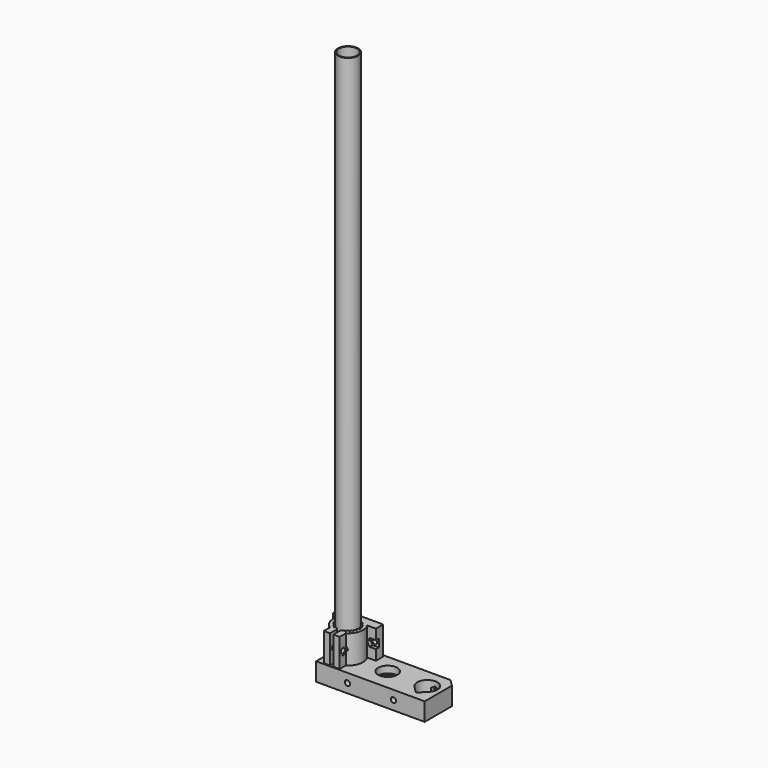
from build123d import *

# Parameters (mm, degrees)
F1_DEPTH      = 25
F2_R          = 2.1
F3_DEPTH      = 25.8780032048
F4_DEPTH      = 2
F4_DEPTH_BACK = 11.8780032048
F5_R          = 3.5
F6_DEPTH      = 0.4
F6_DEPTH_BACK = 11.8780032048
F7_R          = 2.1
F8_DEPTH      = 3.2
F9_DEPTH      = 8.001
F10_R         = 8.5
F10_R_2       = 3.2
F11_DEPTH     = 16
F12_SIZE      = 6
F13_DEPTH     = 6
F14_R         = 6
F15_DEPTH     = 1.8
F16_R         = 2
F17_DEPTH     = 16.926
F18_DEPTH     = 12.3
F19_R         = 2.3
F20_DEPTH     = 36.001
F19_R_2       = 3.8
F21_DEPTH     = 25
F22_R         = 8.925
F22_R_2       = 8.125
F23_DEPTH     = 470


with BuildPart() as f1:
    # F0 (on Top) → F1 (new body)
    with BuildSketch(Plane.XY):
        with BuildLine():
            Line((18.8770032048, 15.225), (0, 15.225))
            Line((0, 15.225), (-18.8770032048, 15.225))
            Line((-18.8770032048, 15.225), (-18.8770032048, 7.225))
            Line((-18.8770032048, 7.225), (-11.0770032048, 7.225))
            ThreePointArc((-11.0770032048, 7.225), (-12.9133280648, -2.8542220115), (-7, -11.2205447729))
            Line((-7, -11.2205447729), (-7, -18.0205447729))
            Line((-7, -18.0205447729), (-1.5, -18.0205447729))
            Line((-1.5, -18.0205447729), (-1.5, -10.2134570206))
            Line((-1.5, -10.2134570206), (-3.5, -8.5352577583))
            ThreePointArc((-3.5, -8.5352577583), (-3.884902989, -8.3670875319), (-4.2617517551, -8.1815705691))
            Line((-4.2617517551, -8.1815705691), (-4.9160898385, -9.3149173748))
            Line((-4.9160898385, -9.3149173748), (-5.6089101615, -8.9149173748))
            Line((-5.6089101615, -8.9149173748), (-4.9545720782, -7.7815705691))
            ThreePointArc((-4.9545720782, -7.7815705691), (-5.6158241826, -7.3186845642), (-6.2340823677, -6.7997677926))
            Line((-6.2340823677, -6.7997677926), (-7.1594561595, -7.7251415845))
            Line((-7.1594561595, -7.7251415845), (-7.7251415845, -7.1594561595))
            Line((-7.7251415845, -7.1594561595), (-6.7997677926, -6.2340823677))
            ThreePointArc((-6.7997677926, -6.2340823677), (-7.3186845642, -5.6158241826), (-7.7815705691, -4.9545720782))
            Line((-7.7815705691, -4.9545720782), (-8.9149173748, -5.6089101615))
            Line((-8.9149173748, -5.6089101615), (-9.3149173748, -4.9160898385))
            Line((-9.3149173748, -4.9160898385), (-8.1815705691, -4.2617517551))
            ThreePointArc((-8.1815705691, -4.2617517551), (-8.5227886874, -3.5302546636), (-8.798757596, -2.7717304644))
            Line((-8.798757596, -2.7717304644), (-10.0628417037, -3.1104407802))
            Line((-10.0628417037, -3.1104407802), (-10.2698969397, -2.3377001192))
            Line((-10.2698969397, -2.3377001192), (-9.0058128321, -1.9989898034))
            ThreePointArc((-9.0058128321, -1.9989898034), (-9.1460788462, -1.2041041232), (-9.2163238333, -0.4))
            Line((-9.2163238333, -0.4), (-10.525, -0.4))
            Line((-10.525, -0.4), (-10.525, 0.4))
            Line((-10.525, 0.4), (-9.2163238333, 0.4))
            ThreePointArc((-9.2163238333, 0.4), (-9.1460788462, 1.2041041232), (-9.0058128321, 1.9989898034))
            Line((-9.0058128321, 1.9989898034), (-10.2698969397, 2.3377001192))
            Line((-10.2698969397, 2.3377001192), (-10.0628417037, 3.1104407802))
            Line((-10.0628417037, 3.1104407802), (-8.798757596, 2.7717304644))
            ThreePointArc((-8.798757596, 2.7717304644), (-8.5227886874, 3.5302546636), (-8.1815705691, 4.2617517551))
            Line((-8.1815705691, 4.2617517551), (-9.3149173748, 4.9160898385))
            Line((-9.3149173748, 4.9160898385), (-8.9149173748, 5.6089101615))
            Line((-8.9149173748, 5.6089101615), (-7.7815705691, 4.9545720782))
            ThreePointArc((-7.7815705691, 4.9545720782), (-7.3186845642, 5.6158241826), (-6.7997677926, 6.2340823677))
            Line((-6.7997677926, 6.2340823677), (-7.7251415845, 7.1594561595))
            Line((-7.7251415845, 7.1594561595), (-7.1594561595, 7.7251415845))
            Line((-7.1594561595, 7.7251415845), (-6.2340823677, 6.7997677926))
            ThreePointArc((-6.2340823677, 6.7997677926), (-5.6158241826, 7.3186845642), (-4.9545720782, 7.7815705691))
            Line((-4.9545720782, 7.7815705691), (-5.6089101615, 8.9149173748))
            Line((-5.6089101615, 8.9149173748), (-4.9160898385, 9.3149173748))
            Line((-4.9160898385, 9.3149173748), (-4.2617517551, 8.1815705691))
            ThreePointArc((-4.2617517551, 8.1815705691), (-3.5302546636, 8.5227886874), (-2.7717304644, 8.798757596))
            Line((-2.7717304644, 8.798757596), (-3.1104407802, 10.0628417037))
            Line((-3.1104407802, 10.0628417037), (-2.3377001192, 10.2698969397))
            Line((-2.3377001192, 10.2698969397), (-1.9989898034, 9.0058128321))
            ThreePointArc((-1.9989898034, 9.0058128321), (-1.2041041232, 9.1460788462), (-0.4, 9.2163238333))
            Line((-0.4, 9.2163238333), (-0.4, 10.525))
            Line((-0.4, 10.525), (0.4, 10.525))
            Line((0.4, 10.525), (0.4, 9.2163238333))
            ThreePointArc((0.4, 9.2163238333), (1.2041041232, 9.1460788462), (1.9989898034, 9.0058128321))
            Line((1.9989898034, 9.0058128321), (2.3377001192, 10.2698969397))
            Line((2.3377001192, 10.2698969397), (3.1104407802, 10.0628417037))
            Line((3.1104407802, 10.0628417037), (2.7717304644, 8.798757596))
            ThreePointArc((2.7717304644, 8.798757596), (3.5302546636, 8.5227886874), (4.2617517551, 8.1815705691))
            Line((4.2617517551, 8.1815705691), (4.9160898385, 9.3149173748))
            Line((4.9160898385, 9.3149173748), (5.6089101615, 8.9149173748))
            Line((5.6089101615, 8.9149173748), (4.9545720782, 7.7815705691))
            ThreePointArc((4.9545720782, 7.7815705691), (5.6158241826, 7.3186845642), (6.2340823677, 6.7997677926))
            Line((6.2340823677, 6.7997677926), (7.1594561595, 7.7251415845))
            Line((7.1594561595, 7.7251415845), (7.7251415845, 7.1594561595))
            Line((7.7251415845, 7.1594561595), (6.7997677926, 6.2340823677))
            ThreePointArc((6.7997677926, 6.2340823677), (7.3186845642, 5.6158241826), (7.7815705691, 4.9545720782))
            Line((7.7815705691, 4.9545720782), (8.9149173748, 5.6089101615))
            Line((8.9149173748, 5.6089101615), (9.3149173748, 4.9160898385))
            Line((9.3149173748, 4.9160898385), (8.1815705691, 4.2617517551))
            ThreePointArc((8.1815705691, 4.2617517551), (8.5227886874, 3.5302546636), (8.798757596, 2.7717304644))
            Line((8.798757596, 2.7717304644), (10.0628417037, 3.1104407802))
            Line((10.0628417037, 3.1104407802), (10.2698969397, 2.3377001192))
            Line((10.2698969397, 2.3377001192), (9.0058128321, 1.9989898034))
            ThreePointArc((9.0058128321, 1.9989898034), (9.1460788462, 1.2041041232), (9.2163238333, 0.4))
            Line((9.2163238333, 0.4), (10.525, 0.4))
            Line((10.525, 0.4), (10.525, -0.4))
            Line((10.525, -0.4), (9.2163238333, -0.4))
            ThreePointArc((9.2163238333, -0.4), (9.1460788462, -1.2041041232), (9.0058128321, -1.9989898034))
            Line((9.0058128321, -1.9989898034), (10.2698969397, -2.3377001192))
            Line((10.2698969397, -2.3377001192), (10.0628417037, -3.1104407802))
            Line((10.0628417037, -3.1104407802), (8.798757596, -2.7717304644))
            ThreePointArc((8.798757596, -2.7717304644), (8.5227886874, -3.5302546636), (8.1815705691, -4.2617517551))
            Line((8.1815705691, -4.2617517551), (9.3149173748, -4.9160898385))
            Line((9.3149173748, -4.9160898385), (8.9149173748, -5.6089101615))
            Line((8.9149173748, -5.6089101615), (7.7815705691, -4.9545720782))
            ThreePointArc((7.7815705691, -4.9545720782), (7.3186845642, -5.6158241826), (6.7997677926, -6.2340823677))
            Line((6.7997677926, -6.2340823677), (7.7251415845, -7.1594561595))
            Line((7.7251415845, -7.1594561595), (7.1594561595, -7.7251415845))
            Line((7.1594561595, -7.7251415845), (6.2340823677, -6.7997677926))
            ThreePointArc((6.2340823677, -6.7997677926), (5.6158241826, -7.3186845642), (4.9545720782, -7.7815705691))
            Line((4.9545720782, -7.7815705691), (5.6089101615, -8.9149173748))
            Line((5.6089101615, -8.9149173748), (4.9160898385, -9.3149173748))
            Line((4.9160898385, -9.3149173748), (4.2617517551, -8.1815705691))
            ThreePointArc((4.2617517551, -8.1815705691), (3.884902989, -8.3670875319), (3.5, -8.5352577583))
            Line((3.5, -8.5352577583), (1.5, -10.2134570206))
            Line((1.5, -10.2134570206), (1.5, -18.0205447729))
            Line((1.5, -18.0205447729), (7, -18.0205447729))
            Line((7, -18.0205447729), (7, -11.2205447729))
            ThreePointArc((7, -11.2205447729), (12.9133280648, -2.8542220115), (11.0770032048, 7.225))
            Line((11.0770032048, 7.225), (18.8770032048, 7.225))
            Line((18.8770032048, 7.225), (18.8770032048, 15.225))
        make_face()
    extrude(amount=F1_DEPTH)

    # F2 (on face) → F3 (cut, through all)
    with BuildSketch(Plane(origin=(-7, 0, 0), x_dir=(0, -1, 0), z_dir=(-1, 0, 0))):
        with Locations((13.9205447729, 12.5)):
            Circle(F2_R)
    extrude(amount=-F3_DEPTH, mode=Mode.SUBTRACT)

    # F2 (on face) → F4 (cut, two sides)
    with BuildSketch(Plane(origin=(-7, 0, 0), x_dir=(0, -1, 0), z_dir=(-1, 0, 0))) as f4_sk:
        Polygon((11.2205447729, 10.0173938425), (11.2205447729, 14.9826061575), (10.4205447729, 14.5207259422), (10.4205447729, 10.4792740578), align=None)
        Polygon((17.4205447729, 10.4792740578), (17.4205447729, 14.5207259422), (13.9205447729, 16.5414518843), (11.2205447729, 14.9826061575), (11.2205447729, 10.0173938425), (13.9205447729, 8.4585481157), align=None)
        with Locations((13.9205447729, 12.5)):
            Circle(F2_R, mode=Mode.SUBTRACT)
    extrude(amount=-F4_DEPTH, mode=Mode.SUBTRACT)
    extrude(f4_sk.sketch, amount=F4_DEPTH_BACK, mode=Mode.SUBTRACT)

    # F5 (on face) → F6 (cut, two sides)
    with BuildSketch(Plane.YZ.offset(7)) as f6_sk:
        with Locations((-13.9205447729, 12.5)):
            Circle(F5_R)
    extrude(amount=-F6_DEPTH, mode=Mode.SUBTRACT)
    extrude(f6_sk.sketch, amount=F6_DEPTH_BACK, mode=Mode.SUBTRACT)

    # F7 (on face) → F8 (cut)
    with BuildSketch(Plane.XZ.offset(-7.225)):
        Polygon((-17.3391810313, 9), (-13.297729147, 9), (-11.2770032048, 12.5), (-13.297729147, 16), (-17.3391810313, 16), (-18.8770032048, 16), (-18.8770032048, 9), align=None)
        with Locations((-15.3184550892, 12.5)):
            Circle(F7_R, mode=Mode.SUBTRACT)
        Polygon((17.3391810313, 9), (18.8770032048, 9), (18.8770032048, 16), (17.3391810313, 16), (13.297729147, 16), (11.2770032048, 12.5), (13.297729147, 9), align=None)
        with Locations((15.3184550892, 12.5)):
            Circle(F7_R, mode=Mode.SUBTRACT)
    extrude(amount=-F8_DEPTH, mode=Mode.SUBTRACT)

    # F7 (on face) → F9 (cut, through all)
    with BuildSketch(Plane.XZ.offset(-7.225)):
        with Locations((-15.3184550892, 12.5)):
            Circle(F7_R)
        with Locations((15.3184550892, 12.5)):
            Circle(F7_R)
    extrude(amount=-F9_DEPTH, mode=Mode.SUBTRACT)


with BuildPart() as f11:
    # F10 (on Top) → F11 (new body)
    with BuildSketch(Plane.XY):
        Polygon((-12.925, -19.075), (35, -19.075), (82.925, -19.075), (82.925, 16.925), (35, 16.925), (-12.925, 16.925), align=None)
        with BuildLine():
            ThreePointArc((-6.3109280221, -6.3109280221), (-3.4154496339, 8.2456248277), (8.925, 0))
            ThreePointArc((8.925, 0), (8.2456248277, -3.4154496339), (6.3109280221, -6.3109280221))
            Line((6.3109280221, -6.3109280221), (0, -12.6218560442))
            Line((0, -12.6218560442), (-6.3109280221, -6.3109280221))
        make_face(mode=Mode.SUBTRACT)
        with BuildLine():
            Line((70, -12.6218560442), (63.6890719779, -6.3109280221))
            ThreePointArc((63.6890719779, -6.3109280221), (66.5845503661, 8.2456248277), (78.925, 0))
            ThreePointArc((78.925, 0), (78.2456248277, -3.4154496339), (76.3109280221, -6.3109280221))
            Line((76.3109280221, -6.3109280221), (70, -12.6218560442))
        make_face(mode=Mode.SUBTRACT)
        with Locations((35, 0)):
            Circle(F10_R, mode=Mode.SUBTRACT)
        with Locations((35, 0)):
            Circle(F10_R)
        with Locations((35, 0)):
            Circle(F10_R_2, mode=Mode.SUBTRACT)
    extrude(amount=-F11_DEPTH)

    # F12
    f12_edges = [f11.edges().sort_by_distance(p)[0] for p in [
        (-12.925, 16.925, -8),
        (82.925, 16.925, -8),
    ]]
    chamfer(f12_edges, length=F12_SIZE)

    # F10 (on Top) → F13 (cut)
    with BuildSketch(Plane.XY):
        with Locations((35, 0)):
            Circle(F10_R)
        with Locations((35, 0)):
            Circle(F10_R_2, mode=Mode.SUBTRACT)
    extrude(amount=-F13_DEPTH, mode=Mode.SUBTRACT)

    # F14 (on face) → F15 (cut)
    with BuildSketch(Plane.XY.offset(-6)):
        with Locations((35, 0)):
            Circle(F14_R)
    extrude(amount=-F15_DEPTH, mode=Mode.SUBTRACT)

    # F16 (on Front) → F17 (cut, through all)
    with BuildSketch(Plane.XZ):
        with Locations((70, -8)):
            Circle(F16_R)
        with Locations((0, -8)):
            Circle(F16_R)
    extrude(amount=-F17_DEPTH, mode=Mode.SUBTRACT)

    # F16 (on Front) → F18 (cut)
    with BuildSketch(Plane.XZ):
        Polygon((70, -12.0414518843), (73.5, -10.0207259422), (73.5, -5.9792740578), (70, -3.9585481157), (66.5, -5.9792740578), (66.5, -10.0207259422), align=None)
        with Locations((70, -8)):
            Circle(F16_R, mode=Mode.SUBTRACT)
        Polygon((-3.5, -5.9792740578), (-3.5, -10.0207259422), (0, -12.0414518843), (3.5, -10.0207259422), (3.5, -5.9792740578), (0, -3.9585481157), align=None)
        with Locations((0, -8)):
            Circle(F16_R, mode=Mode.SUBTRACT)
    extrude(amount=-F18_DEPTH, mode=Mode.SUBTRACT)

    # F19 (on face) → F20 (cut, through all)
    with BuildSketch(Plane(origin=(0, 16.925, 0), x_dir=(-1, 0, 0), z_dir=(0, 1, 0))):
        with Locations((-55.275, -8)):
            Circle(F19_R)
        with Locations((-14.725, -8)):
            Circle(F19_R)
    extrude(amount=-F20_DEPTH, mode=Mode.SUBTRACT)

    # F19 (on face) → F21 (cut)
    with BuildSketch(Plane(origin=(0, 16.925, 0), x_dir=(-1, 0, 0), z_dir=(0, 1, 0))):
        with Locations((-55.275, -8)):
            Circle(F19_R_2)
        with Locations((-55.275, -8)):
            Circle(F19_R, mode=Mode.SUBTRACT)
        with Locations((-14.725, -8)):
            Circle(F19_R_2)
        with Locations((-14.725, -8)):
            Circle(F19_R, mode=Mode.SUBTRACT)
    extrude(amount=-F21_DEPTH, mode=Mode.SUBTRACT)


with BuildPart() as f23:
    # F22 (on Top) → F23 (new body)
    with BuildSketch(Plane.XY):
        Circle(F22_R)
        Circle(F22_R_2, mode=Mode.SUBTRACT)
    extrude(amount=F23_DEPTH)


solid = Compound([f1.part, f11.part, f23.part])
